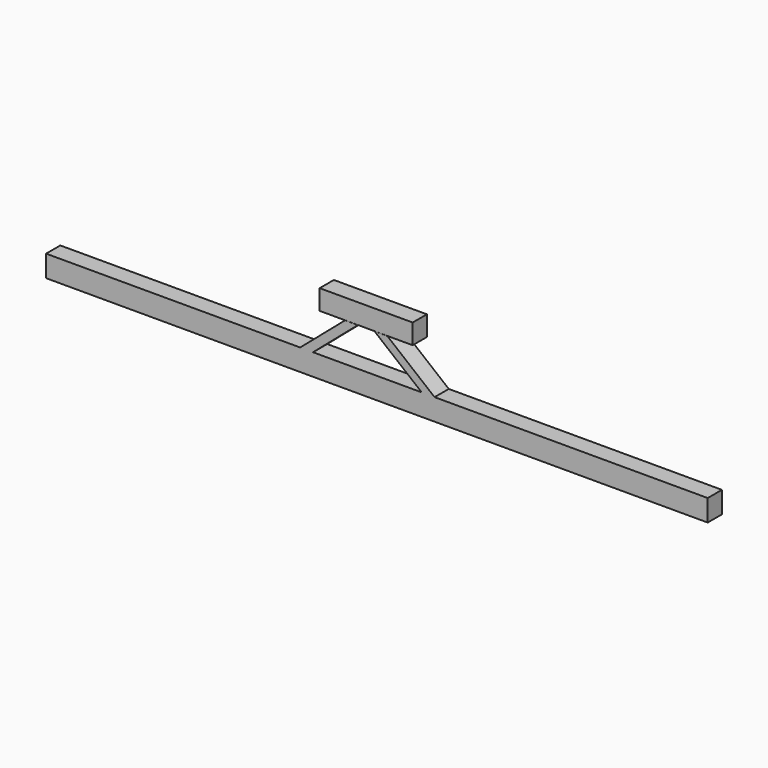
from build123d import *

# Parameters (mm, degrees)
F1_DEPTH = 2.286
F2_ANGLE = 180


with BuildPart() as f1:
    # F0 (on Front) → F1 (new body)
    with BuildSketch(Plane.XZ):
        Polygon((-42.707787, 16.501739), (-42.707787, 13.721739), (-10.013191, 13.721739), (-8.363191, 13.721739), (5.627477, 13.721739), (7.277477, 13.721739), (42.422213, 13.721739), (42.422213, 16.501739), (16.016809, 16.501739), (14.606809, 16.501739), (-8.603191, 16.501739), (-10.013191, 16.501739), align=None)
        Polygon((7.277477, 13.721739), (5.627477, 13.721739), (-0.452795, 8.770274), (1.197205, 8.770274), align=None)
        Polygon((-8.363191, 13.721739), (-10.013191, 13.721739), (-4.242795, 8.770274), (-2.592795, 8.770274), align=None)
        Polygon((-1.522795, 6.184086), (-1.522795, 8.76011), (-7.507974, 8.76011), (-7.507974, 8.116104), (-7.507974, 7.472098), (-7.507974, 6.828092), (-7.507974, 6.184086), align=None)
        Polygon((4.462385, 8.76011), (-1.522795, 8.76011), (-1.522795, 6.184086), (4.462385, 6.184086), (4.462385, 6.828092), (4.462385, 7.472098), (4.462385, 8.116104), align=None)
    extrude(amount=F1_DEPTH)


with BuildPart() as f1_1:
    # F2: moved
    add(f1.part.rotate(Axis((-1.522795, -2.286, 8.76011), (1, 0, 0)), F2_ANGLE))


solid = f1_1.part
